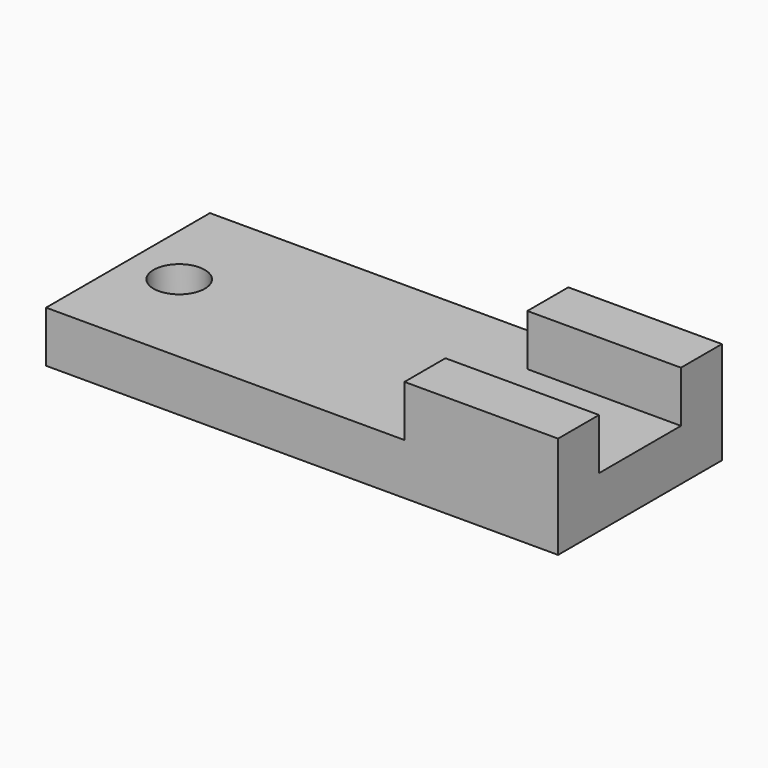
from build123d import *

# Parameters (mm, degrees)
F0_W     = 100
F0_H     = 40
F1_DEPTH = 10
F2_R     = 5
F3_DEPTH = 10
F4_W     = 30
F4_H     = 40
F5_DEPTH = 10
F6_W     = 30
F6_H     = 20
F7_DEPTH = 10


with BuildPart() as f1:
    # F0 (on Top) → F1 (new body)
    with BuildSketch(Plane.XY):
        with Locations((40, 0)):
            Rectangle(F0_W, F0_H)
    extrude(amount=F1_DEPTH)

    # F2 (on face) → F3 (cut, through all)
    with BuildSketch(Plane.XY.offset(10)):
        Circle(F2_R)
    extrude(amount=-F3_DEPTH, mode=Mode.SUBTRACT)

    # F4 (on face) → F5 (join)
    with BuildSketch(Plane.XY.offset(10)):
        with Locations((75, 0)):
            Rectangle(F4_W, F4_H)
    extrude(amount=F5_DEPTH)

    # F6 (on face) → F7 (cut)
    with BuildSketch(Plane.XY.offset(20)):
        with Locations((75, 0)):
            Rectangle(F6_W, F6_H)
    extrude(amount=-F7_DEPTH, mode=Mode.SUBTRACT)


solid = f1.part
